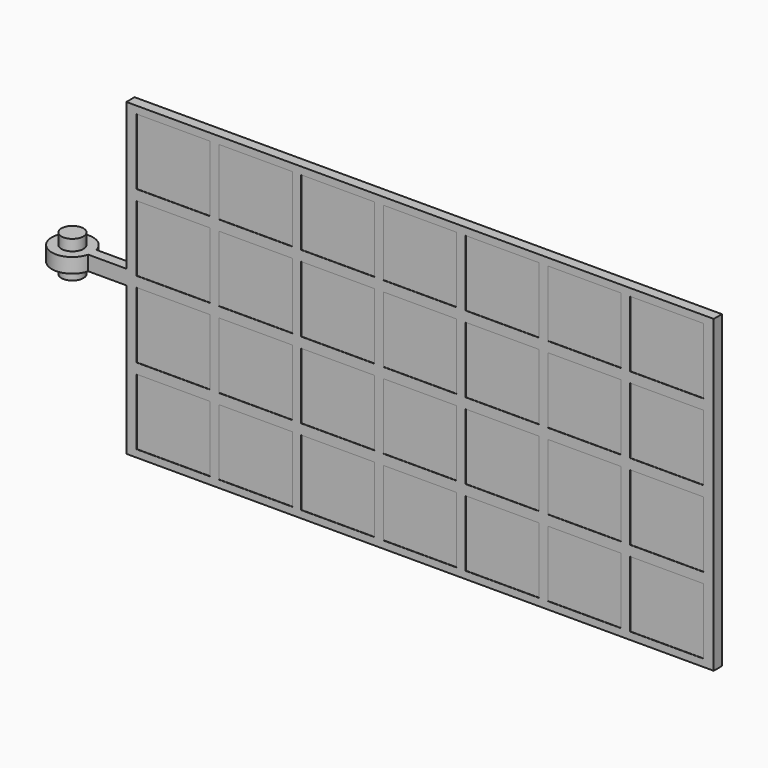
from build123d import *

# Parameters (mm, degrees)
F0_R     = 7.5
F1_DEPTH = 12.5
F3_DEPTH = 5
F4_W     = 50
F4_H     = 45
F5_DEPTH = 3.5
F6_W     = 394.294891
F6_H     = 206.600897
F7_DEPTH = 3.25


with BuildPart() as f1:
    # F0 (on Top) → F1 (new body, symmetric)
    with BuildSketch(Plane.XY):
        Circle(F0_R)
    extrude(amount=F1_DEPTH, both=True)

    # F2 (on Top) → F3 (join, symmetric)
    with BuildSketch(Plane.XY):
        with BuildLine():
            Line((39.555442, 3.5), (13.555442, 3.5))
            ThreePointArc((13.555442, 3.5), (-14, 0), (13.555442, -3.5))
            Line((13.555442, -3.5), (39.555442, -3.5))
            Line((39.555442, -3.5), (39.555442, 3.5))
        make_face()
    extrude(amount=F3_DEPTH, both=True)

    # F4 (on Front) → F5 (join, symmetric)
    with BuildSketch(Plane.XZ):
        Polygon((39.555442, 105), (39.555442, 5), (39.555442, -5), (39.555442, -106), (439.555442, -106), (439.555442, 105), align=None)
        with Locations((71.555442, -78.5)):
            Rectangle(F4_W, F4_H, mode=Mode.SUBTRACT)
        with Locations((127.555442, -78.5)):
            Rectangle(F4_W, F4_H, mode=Mode.SUBTRACT)
        with Locations((183.555442, -78.5)):
            Rectangle(F4_W, F4_H, mode=Mode.SUBTRACT)
        with Locations((239.555442, -78.5)):
            Rectangle(F4_W, F4_H, mode=Mode.SUBTRACT)
        with Locations((71.555442, -26.5)):
            Rectangle(F4_W, F4_H, mode=Mode.SUBTRACT)
        with Locations((127.555442, -26.5)):
            Rectangle(F4_W, F4_H, mode=Mode.SUBTRACT)
        with Locations((183.555442, -26.5)):
            Rectangle(F4_W, F4_H, mode=Mode.SUBTRACT)
        with Locations((239.555442, -26.5)):
            Rectangle(F4_W, F4_H, mode=Mode.SUBTRACT)
        with Locations((295.555442, -78.5)):
            Rectangle(F4_W, F4_H, mode=Mode.SUBTRACT)
        with Locations((351.555442, -78.5)):
            Rectangle(F4_W, F4_H, mode=Mode.SUBTRACT)
        with Locations((407.555442, -78.5)):
            Rectangle(F4_W, F4_H, mode=Mode.SUBTRACT)
        with Locations((295.555442, -26.5)):
            Rectangle(F4_W, F4_H, mode=Mode.SUBTRACT)
        with Locations((351.555442, -26.5)):
            Rectangle(F4_W, F4_H, mode=Mode.SUBTRACT)
        with Locations((407.555442, -26.5)):
            Rectangle(F4_W, F4_H, mode=Mode.SUBTRACT)
        with Locations((71.555442, 25.5)):
            Rectangle(F4_W, F4_H, mode=Mode.SUBTRACT)
        with Locations((127.555442, 25.5)):
            Rectangle(F4_W, F4_H, mode=Mode.SUBTRACT)
        with Locations((183.555442, 25.5)):
            Rectangle(F4_W, F4_H, mode=Mode.SUBTRACT)
        with Locations((239.555442, 25.5)):
            Rectangle(F4_W, F4_H, mode=Mode.SUBTRACT)
        with Locations((71.555442, 77.5)):
            Rectangle(F4_W, F4_H, mode=Mode.SUBTRACT)
        with Locations((127.555442, 77.5)):
            Rectangle(F4_W, F4_H, mode=Mode.SUBTRACT)
        with Locations((183.555442, 77.5)):
            Rectangle(F4_W, F4_H, mode=Mode.SUBTRACT)
        with Locations((239.555442, 77.5)):
            Rectangle(F4_W, F4_H, mode=Mode.SUBTRACT)
        with Locations((295.555442, 25.5)):
            Rectangle(F4_W, F4_H, mode=Mode.SUBTRACT)
        with Locations((351.555442, 25.5)):
            Rectangle(F4_W, F4_H, mode=Mode.SUBTRACT)
        with Locations((407.555442, 25.5)):
            Rectangle(F4_W, F4_H, mode=Mode.SUBTRACT)
        with Locations((295.555442, 77.5)):
            Rectangle(F4_W, F4_H, mode=Mode.SUBTRACT)
        with Locations((351.555442, 77.5)):
            Rectangle(F4_W, F4_H, mode=Mode.SUBTRACT)
        with Locations((407.555442, 77.5)):
            Rectangle(F4_W, F4_H, mode=Mode.SUBTRACT)
    extrude(amount=F5_DEPTH, both=True)


with BuildPart() as f7:
    # F6 (on Front) → F7 (new body, symmetric)
    with BuildSketch(Plane.XZ):
        with Locations((239.882452, -1.029384)):
            Rectangle(F6_W, F6_H)
    extrude(amount=F7_DEPTH, both=True)


solid = Compound([f1.part, f7.part])
